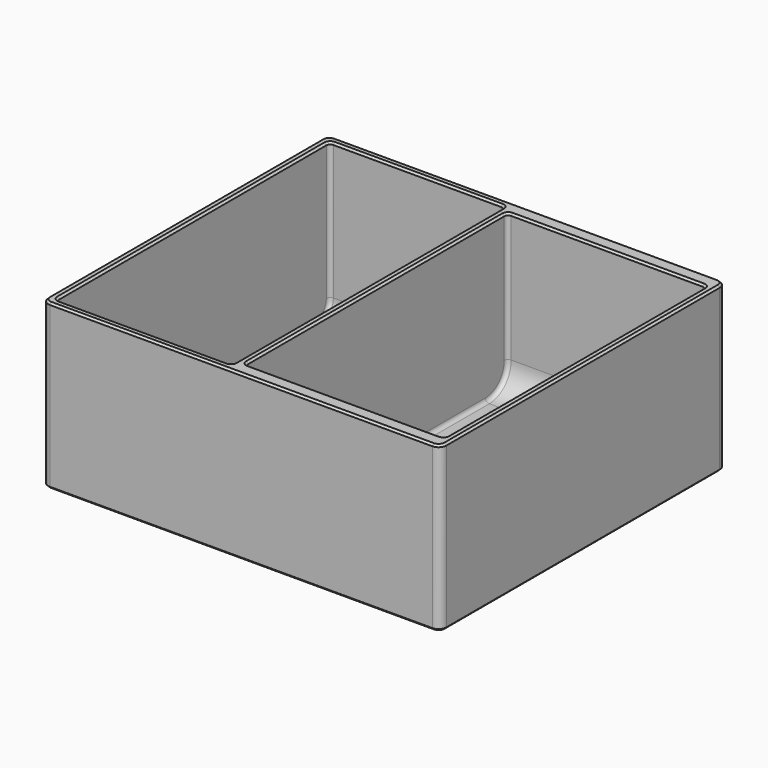
from build123d import *

# Parameters (mm, degrees)
F0_W     = 102
F0_H     = 91.55
F0_W_2   = 45
F0_H_2   = 87.55
F0_W_3   = 51
F0_H_3   = 84
F1_DEPTH = 2
F2_DEPTH = 42
F3_R     = 7
F4_R     = 5
F5_R     = 2
F6_SIZE  = 0.5
F7_R     = 1
F8_SIZE  = 0.5


with BuildPart() as f1:
    # F0 (on Top) → F1 (new body)
    with BuildSketch(Plane.XY):
        with Locations((3, 0)):
            Rectangle(F0_W, F0_H)
        with Locations((-23.5, 0)):
            Rectangle(F0_W_2, F0_H_2, mode=Mode.SUBTRACT)
        with Locations((26.5, 0)):
            Rectangle(F0_W_3, F0_H_3, mode=Mode.SUBTRACT)
        with Locations((-23.5, 0)):
            Rectangle(F0_W_2, F0_H_2)
        with Locations((26.5, 0)):
            Rectangle(F0_W_3, F0_H_3)
    extrude(amount=F1_DEPTH)

    # F0 (on Top) → F2 (join)
    with BuildSketch(Plane.XY):
        with Locations((3, 0)):
            Rectangle(F0_W, F0_H)
        with Locations((-23.5, 0)):
            Rectangle(F0_W_2, F0_H_2, mode=Mode.SUBTRACT)
        with Locations((26.5, 0)):
            Rectangle(F0_W_3, F0_H_3, mode=Mode.SUBTRACT)
    extrude(amount=F2_DEPTH)

    # F3
    f3_edges = [f1.edges().sort_by_distance(p)[0] for p in [
        (26.5, 42, 2),
        (26.5, -42, 2),
    ]]
    fillet(f3_edges, radius=F3_R)

    # F4
    f4_edges = [f1.edges().sort_by_distance(p)[0] for p in [
        (-23.5, 43.775, 2),
        (-23.5, -43.775, 2),
    ]]
    fillet(f4_edges, radius=F4_R)

    # F5
    f5_edges = [f1.edges().sort_by_distance(p)[0] for p in [
        (54, -45.775, 21),
        (54, 45.775, 21),
        (-48, 45.775, 21),
        (-48, -45.775, 21),
    ]]
    fillet(f5_edges, radius=F5_R)

    # F6
    f6_edges = [f1.edges().sort_by_distance(p)[0] for p in [
        (-48, 0, 0),
        (-47.414214, 45.189214, 0),
        (-47.414214, -45.189214, 0),
        (3, 45.775, 0),
        (3, -45.775, 0),
        (53.414214, 45.189214, 0),
        (53.414214, -45.189214, 0),
        (54, 0, 0),
    ]]
    chamfer(f6_edges, length=F6_SIZE)

    # F7
    f7_edges = [f1.edges().sort_by_distance(p)[0] for p in [
        (-46, 43.775, 24.5),
        (-1, 0, 2),
        (1, -42, 25.5),
        (52, 42, 25.5),
    ]]
    fillet(f7_edges, radius=F7_R)

    # F8
    f8_edges = [f1.edges().sort_by_distance(p)[0] for p in [
        (-46, 0, 42),
        (-45.707107, -43.482107, 42),
        (-45.707107, 43.482107, 42),
        (-23.5, -43.775, 42),
        (-23.5, 43.775, 42),
        (-1.292893, -43.482107, 42),
        (-1.292893, 43.482107, 42),
        (-1, 0, 42),
        (-48, 0, 42),
        (-47.414214, 45.189214, 42),
        (-47.414214, -45.189214, 42),
        (3, 45.775, 42),
        (3, -45.775, 42),
        (53.414214, 45.189214, 42),
        (53.414214, -45.189214, 42),
        (54, 0, 42),
        (26.5, -42, 42),
        (51.707107, -41.707107, 42),
        (1.292893, -41.707107, 42),
        (52, 0, 42),
        (1, 0, 42),
        (51.707107, 41.707107, 42),
        (1.292893, 41.707107, 42),
        (26.5, 42, 42),
    ]]
    chamfer(f8_edges, length=F8_SIZE)


solid = f1.part
